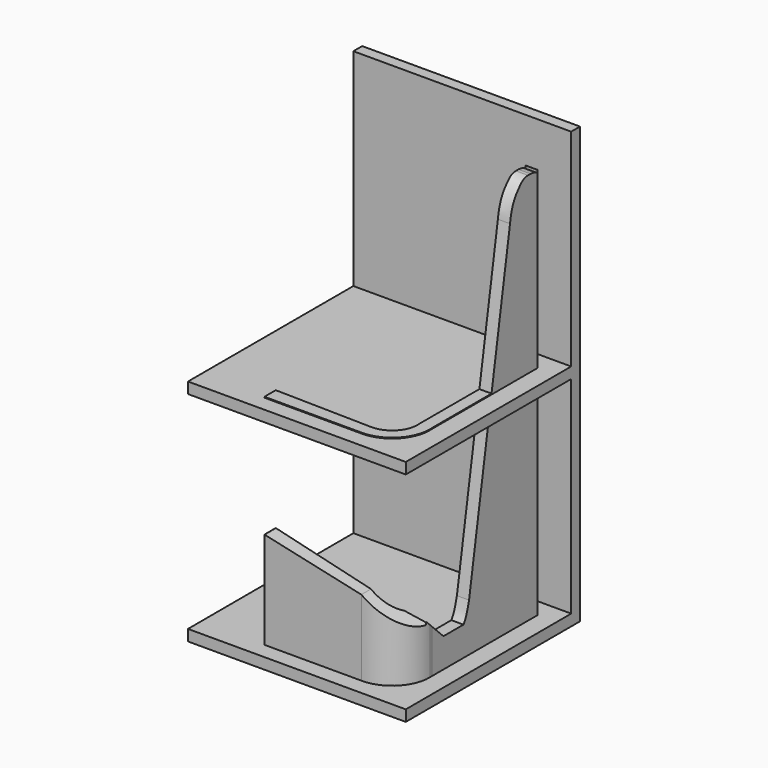
from build123d import *

# Parameters (mm, degrees)
F0_W     = 949.2
F0_H     = 50.8
F0_W_2   = 50.8
F0_H_2   = 949.2
F1_DEPTH = 1000
F3_DEPTH = 1800
F5_DEPTH = 5360
F7_START = 131
F7_DEPTH = 629


with BuildPart() as f1:
    # F0 (on Right) → F1 (new body)
    with BuildSketch(Plane.YZ):
        with Locations((-29.1286933511, 973.496588254)):
            Rectangle(F0_W, F0_H)
        with Locations((470.8713066489, 973.496588254)):
            Rectangle(F0_W_2, F0_H)
        with Locations((470.8713066489, 1473.496588254)):
            Rectangle(F0_W_2, F0_H_2)
        Polygon((-503.7286933511, -1.103411746), (-503.7286933511, -51.903411746), (496.2713066489, -51.903411746), (496.2713066489, 948.096588254), (445.4713066489, 948.096588254), (445.4713066489, 0), align=None)
    extrude(amount=F1_DEPTH)

    # F2 (on Top) → F3 (join)
    with BuildSketch(Plane.XY):
        with BuildLine():
            ThreePointArc((857.5784564018, -130.1132158098), (896.2008242629, -181.7113174116), (913.260281086, -243.8645660877))
            Line((913.260281086, -243.8645660877), (913.260281086, 360.6808781624))
            Line((913.260281086, 360.6808781624), (857.5784564018, 360.6808781624))
            Line((857.5784564018, 360.6808781624), (857.5784564018, -130.1132158098))
        make_face()
        with BuildLine():
            ThreePointArc((611.3790712788, -372.640659557), (668.6957081838, -415.0795417944), (738.2603287697, -430.7963848114))
            ThreePointArc((738.2603287697, -430.7963848114), (862.2437509886, -381.0271980017), (913.8211489182, -257.785025984))
            ThreePointArc((913.8211489182, -257.785025984), (913.6808751008, -250.8191488596), (913.260281086, -243.8645660877))
            ThreePointArc((913.260281086, -243.8645660877), (896.2008242629, -181.7113174116), (857.5784564018, -130.1132158098))
            Line((857.5784564018, -130.1132158098), (857.5784564018, -243.8645660877))
            ThreePointArc((857.5784564018, -243.8645660877), (858.1982990198, -250.8125329656), (858.4051557693, -257.785025984))
            ThreePointArc((858.4051557693, -257.785025984), (823.0571563331, -341.8406590918), (738.2603287697, -375.3716679713))
            Line((738.2603287697, -375.3716679713), (611.3790712788, -372.640659557))
        make_face()
        with BuildLine():
            Line((292.8057610989, -365.7836468832), (292.8057610989, -430.7963848114))
            Line((292.8057610989, -430.7963848114), (738.2603287697, -430.7963848114))
            ThreePointArc((738.2603287697, -430.7963848114), (668.6957081838, -415.0795417944), (611.3790712788, -372.640659557))
            Line((611.3790712788, -372.640659557), (292.8057610989, -365.7836468832))
        make_face()
    extrude(amount=F3_DEPTH)

    # F4 (on Right) → F5 (cut)
    with BuildSketch(Plane.YZ):
        with BuildLine():
            Line((-435.6626272202, 1808.1647157669), (-436.3610964974, 1002.8872649632))
            Line((-436.3610964974, 1002.8872649632), (96.866071558, 1002.8872649632))
            Line((96.866071558, 1002.8872649632), (202.9513269663, 1646.3969945908))
            add(Edge.make_bspline(
                [(202.9513269663, 1646.3969945908), (204.5801297554, 1657.9332047918), (208.2046485199, 1683.6043361435), (225.3759496446, 1736.6871062603), (256.9211367372, 1774.2470270708), (280.5041077395, 1798.206239093), (317.8181539373, 1801.9341732886), (350.8337600962, 1795.8752573669), (357.6071157247, 1788.8956994391), (360.1746559143, 1786.2499952316)],
                knots=[0, 0, 0, 0, 0.1468911817, 0.3268718889, 0.4960081367, 0.6320686272, 0.7781002106, 0.9158856173, 1, 1, 1, 1], degree=3))
            Line((360.1746559143, 1786.2499952316), (360.1746559143, 1808.1647157669))
            Line((360.1746559143, 1808.1647157669), (-435.6626272202, 1808.1647157669))
        make_face()
        with BuildLine():
            Line((-436.4086301738, 948.084857743), (-436.8441998959, 445.9089040756))
            Line((-436.8441998959, 445.9089040756), (-348.0192422867, 445.9089040756))
            Line((-348.0192422867, 445.9089040756), (-243.5122281313, 445.9089040756))
            Line((-243.5122281313, 445.9089040756), (-243.5122281313, 220.3548997641))
            add(Edge.make_bspline(
                [(-243.5122281313, 220.3548997641), (-233.785627989, 201.848121656), (-224.0590278467, 183.3413435479), (-211.8256313009, 166.9237262564)],
                knots=[0, 0, 0, 0, 0.1915955458, 0.1915955458, 0.1915955458, 0.1915955458], degree=3))
            Line((-211.8256313009, 166.9237262564), (-179.0682524443, 134.4295740128))
            Line((-179.0682524443, 134.4295740128), (-64.2616951351, 134.4295740128))
            add(Edge.make_bspline(
                [(-64.2616951351, 134.4295740128), (-48.6215669755, 155.0982523243), (-40.3796052607, 187.7265760442), (-32.1376435459, 220.3548997641)],
                knots=[0.7406470598, 0.7406470598, 0.7406470598, 0.7406470598, 1, 1, 1, 1], degree=3))
            Line((-32.1376435459, 220.3548997641), (87.7567170793, 947.630215196))
            Line((87.7567170793, 947.630215196), (-436.4086301738, 948.084857743))
        make_face()
        with BuildLine():
            Line((-243.5122281313, 445.9089040756), (-348.0192422867, 445.9089040756))
            Line((-348.0192422867, 445.9089040756), (-348.0192422867, 302.02293396))
            Line((-348.0192422867, 302.02293396), (-211.8256313009, 166.9237262564))
            add(Edge.make_bspline(
                [(-243.5122281313, 220.3548997641), (-233.785627989, 201.848121656), (-224.0590278467, 183.3413435479), (-211.8256313009, 166.9237262564)],
                knots=[0, 0, 0, 0, 0.1915955458, 0.1915955458, 0.1915955458, 0.1915955458], degree=3))
            Line((-243.5122281313, 220.3548997641), (-243.5122281313, 445.9089040756))
        make_face()
    extrude(amount=F5_DEPTH, mode=Mode.SUBTRACT)

    # F6 (on Front) → F7 (cut)
    with BuildSketch(Plane.XZ.offset(F7_START)):
        Polygon((293.0140197277, 459.7436785698), (293.0140197277, 445.7174837589), (737.5785708427, 347.7625846863), (912.6507639885, 219.5038050413), (912.6507639885, 459.7436785698), align=None)
    extrude(amount=F7_DEPTH, mode=Mode.SUBTRACT)


solid = f1.part
